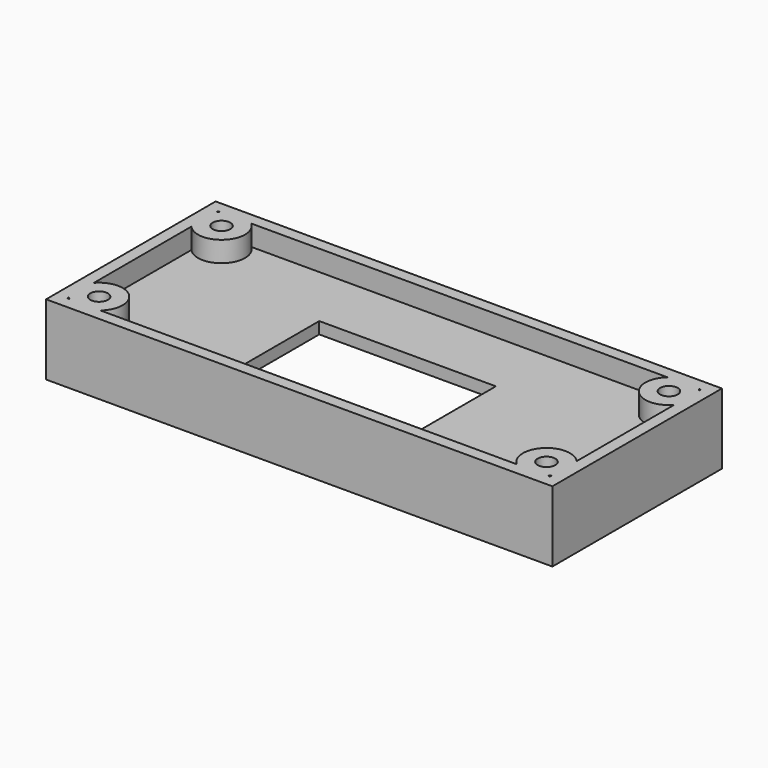
from build123d import *

# Parameters (mm, degrees)
CYLINDER054_R       = 1.5
CYLINDER054_DEPTH   = 12
ARRAY001025_X_COUNT = 2
ARRAY001025_X_PITCH = 76
ARRAY001025_Y_COUNT = 2
ARRAY001025_Y_PITCH = 26
BOX026_W            = 82
BOX026_H            = 32
BOX026_DEPTH        = 12
BOX025_W            = 86
BOX025_H            = 36
BOX025_DEPTH        = 12
BOX028_W            = 30
BOX028_H            = 20
BOX028_DEPTH        = 10
BOX027_W            = 86
BOX027_H            = 36
BOX027_DEPTH        = 2
CYLINDER053_R       = 4
CYLINDER053_DEPTH   = 12
ARRAY001024_X_COUNT = 2
ARRAY001024_X_PITCH = 76
ARRAY001024_Y_COUNT = 2
ARRAY001024_Y_PITCH = 26


with BuildPart() as obj1:
    # Cylinder054 → Cylinder054 (new body)
    with BuildSketch(Plane(origin=(5, 5, 0), x_dir=(1, 0, 0), z_dir=(0, 0, 1))):
        Circle(CYLINDER054_R)
    extrude(amount=CYLINDER054_DEPTH)

    # Array001025 X: obj1_2


with BuildPart() as obj1_1:
    add(obj1.part)
    with Locations(*[(i * ARRAY001025_X_PITCH, 0, 0) for i in range(1, ARRAY001025_X_COUNT)]):
        add(obj1.part)

    # Array001025 Y: obj1_2


with BuildPart() as obj1_2:
    add(obj1_1.part)
    with Locations(*[(0, i * ARRAY001025_Y_PITCH, 0) for i in range(1, ARRAY001025_Y_COUNT)]):
        add(obj1_1.part)


with BuildPart() as extraction_cube:
    # Box026 → Box026 (new body)
    with BuildSketch(Plane(origin=(2, 2, 0), x_dir=(1, 0, 0), z_dir=(0, 0, 1))):
        with Locations((41, 16)):
            Rectangle(BOX026_W, BOX026_H)
    extrude(amount=BOX026_DEPTH)


with BuildPart() as obj2:
    # Box025 → Box025 (new body)
    with BuildSketch(Plane.XY):
        with Locations((43, 18)):
            Rectangle(BOX025_W, BOX025_H)
    extrude(amount=BOX025_DEPTH)

    # Cut022: cut extraction cube
    add(extraction_cube.part, mode=Mode.SUBTRACT)


with BuildPart() as obj3:
    # Box028 → Box028 (new body)
    with BuildSketch(Plane(origin=(28, 3, -5), x_dir=(1, 0, 0), z_dir=(0, 0, 1))):
        with Locations((15, 10)):
            Rectangle(BOX028_W, BOX028_H)
    extrude(amount=BOX028_DEPTH)


with BuildPart() as obj4:
    # Box027 → Box027 (new body)
    with BuildSketch(Plane.XY):
        with Locations((43, 18)):
            Rectangle(BOX027_W, BOX027_H)
    extrude(amount=BOX027_DEPTH)

    # Cut023002: cut obj3
    add(obj3.part, mode=Mode.SUBTRACT)


with BuildPart() as obj4_1:
    # Cut023002 placement: moved
    add(obj4.part.moved(Location((0, 0, 6.5))))


with BuildPart() as obj5:
    # Cylinder053 → Cylinder053 (new body)
    with BuildSketch(Plane(origin=(5, 5, 0), x_dir=(1, 0, 0), z_dir=(0, 0, 1))):
        Circle(CYLINDER053_R)
    extrude(amount=CYLINDER053_DEPTH)

    # Array001024 X: obj5_2


with BuildPart() as obj5_1:
    add(obj5.part)
    with Locations(*[(i * ARRAY001024_X_PITCH, 0, 0) for i in range(1, ARRAY001024_X_COUNT)]):
        add(obj5.part)

    # Array001024 Y: obj5_2


with BuildPart() as obj5_2:
    add(obj5_1.part)
    with Locations(*[(0, i * ARRAY001024_Y_PITCH, 0) for i in range(1, ARRAY001024_Y_COUNT)]):
        add(obj5_1.part)

    # Fusion035: union obj2, obj4
    add(obj2.part)
    add(obj4_1.part)

    # Cut023: cut obj1
    add(obj1_2.part, mode=Mode.SUBTRACT)


solid = obj5_2.part
